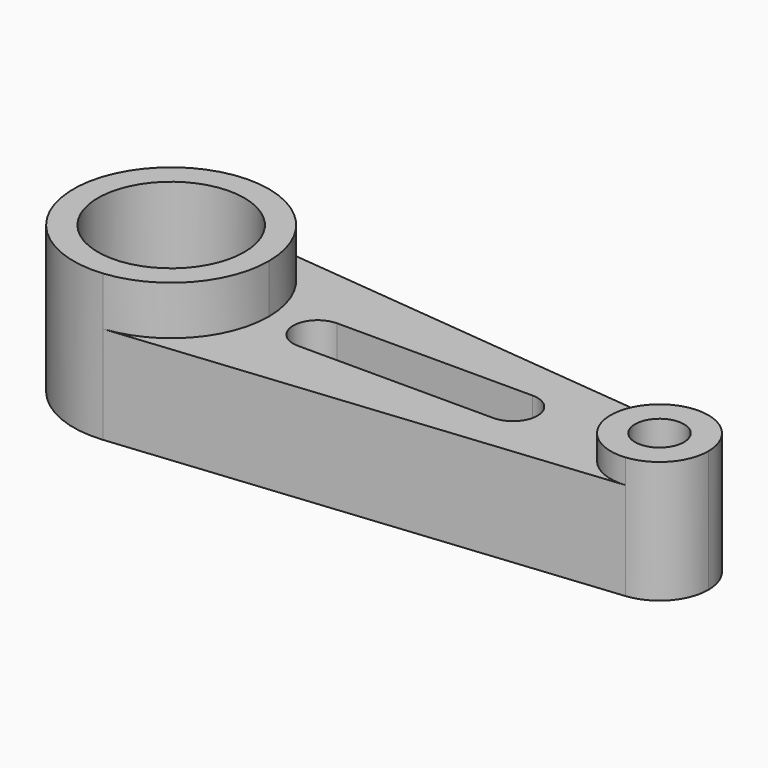
from build123d import *

# Parameters (mm, degrees)
F1_DEPTH = 25.4
F0_R     = 6.35
F2_DEPTH = 31.75
F0_R_2   = 19.05
F3_DEPTH = 38.1


with BuildPart() as f1:
    # F0 (on Top) → F1 (new body)
    with BuildSketch(Plane.XY):
        with BuildLine():
            ThreePointArc((2.54, 25.272681), (18.837144, 17.038838), (25.4, 0))
            ThreePointArc((25.4, 0), (18.837144, -17.038838), (2.54, -25.272681))
            Line((2.54, -25.272681), (128.27, -12.63634))
            ThreePointArc((128.27, -12.63634), (114.3, 0), (128.27, 12.63634))
            Line((128.27, 12.63634), (2.54, 25.272681))
        make_face()
        with BuildLine():
            ThreePointArc((38.1, -6.35), (31.75, 0), (38.1, 6.35))
            Line((38.1, 6.35), (88.9, 6.35))
            ThreePointArc((88.9, 6.35), (95.25, 0), (88.9, -6.35))
            Line((88.9, -6.35), (38.1, -6.35))
        make_face(mode=Mode.SUBTRACT)
    extrude(amount=F1_DEPTH)

    # F0 (on Top) → F2 (join)
    with BuildSketch(Plane.XY):
        with BuildLine():
            ThreePointArc((139.7, 0), (136.418572, 8.519419), (128.27, 12.63634))
            ThreePointArc((128.27, 12.63634), (114.3, 0), (128.27, -12.63634))
            ThreePointArc((128.27, -12.63634), (136.418572, -8.519419), (139.7, 0))
        make_face()
        with Locations((127, 0)):
            Circle(F0_R, mode=Mode.SUBTRACT)
    extrude(amount=F2_DEPTH)

    # F0 (on Top) → F3 (join)
    with BuildSketch(Plane.XY):
        with BuildLine():
            ThreePointArc((2.54, -25.272681), (18.837144, -17.038838), (25.4, 0))
            ThreePointArc((25.4, 0), (18.837144, 17.038838), (2.54, 25.272681))
            ThreePointArc((2.54, 25.272681), (-25.4, 0), (2.54, -25.272681))
        make_face()
        Circle(F0_R_2, mode=Mode.SUBTRACT)
    extrude(amount=F3_DEPTH)


solid = f1.part
